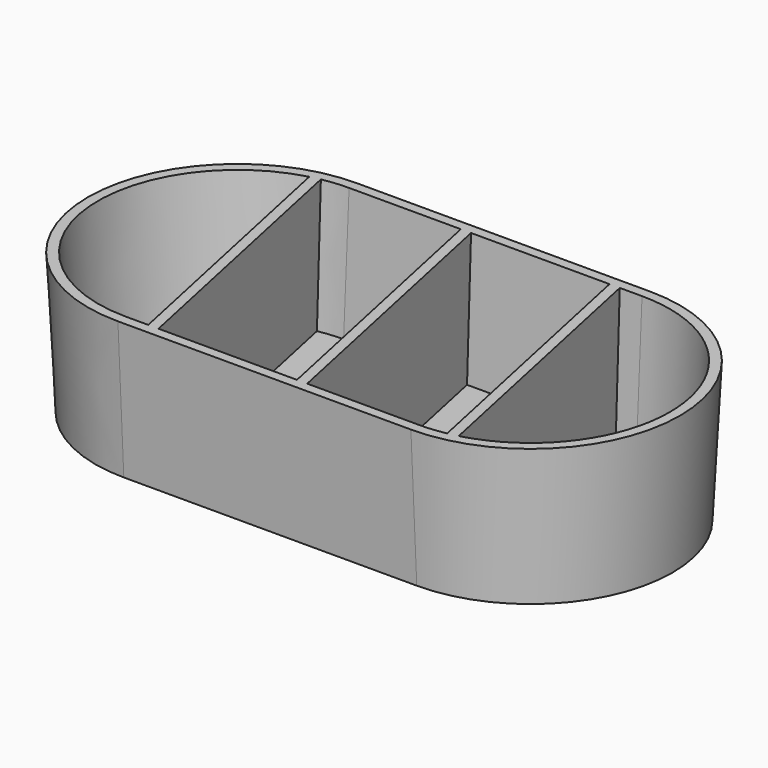
from build123d import *

# Parameters (mm, degrees)
F1_DEPTH = 14
F1_TAPER = 3
F2_T     = -1
F4_DEPTH = 13


with BuildPart() as f1:
    # F0 (on Top) → F1 (new body)
    with BuildSketch(Plane.XY):
        with BuildLine():
            Line((14.5999998801, 14.9), (-14.6000001199, 14.9))
            ThreePointArc((-14.6000001199, 14.9), (-29.5000001199, 0), (-14.6000001199, -14.9))
            Line((-14.6000001199, -14.9), (14.6000003597, -14.9))
            ThreePointArc((14.6000003597, -14.9), (29.4999998801, 2.398e-07), (14.5999998801, 14.9))
        make_face()
    extrude(amount=-F1_DEPTH, taper=F1_TAPER)

    # F2
    f2_openings = [f1.faces().sort_by_distance(p)[0] for p in [
        (0, 0, 0),
    ]]
    offset(amount=F2_T, openings=f2_openings)

    # F3 (on face) → F4 (join, through all)
    with BuildSketch(Plane.XY.offset(-13)):
        Polygon((-2.4430742086, 13.898627654), (-3.4654148035, 13.898627654), (2.4430742086, -13.898627654), (3.4654148035, -13.898627654), align=None)
        with BuildLine():
            ThreePointArc((-17.2142812839, 13.6505452148), (-17.7037250021, 13.5476471212), (-18.1891496276, 13.4272058328))
            Line((-18.1891496276, 13.4272058328), (-12.3808644169, -13.898627654))
            Line((-12.3808644169, -13.898627654), (-11.358523822, -13.898627654))
            Line((-11.358523822, -13.898627654), (-17.2142812839, 13.6505452148))
        make_face()
        with BuildLine():
            Line((12.3808644169, 13.898627654), (11.358523822, 13.898627654))
            Line((11.358523822, 13.898627654), (17.2142812745, -13.6505451706))
            ThreePointArc((17.2142812745, -13.6505451706), (17.7037249911, -13.5476470688), (18.1891496147, -13.4272057721))
            Line((18.1891496147, -13.4272057721), (12.3808644169, 13.898627654))
        make_face()
    extrude(amount=F4_DEPTH)


solid = f1.part
